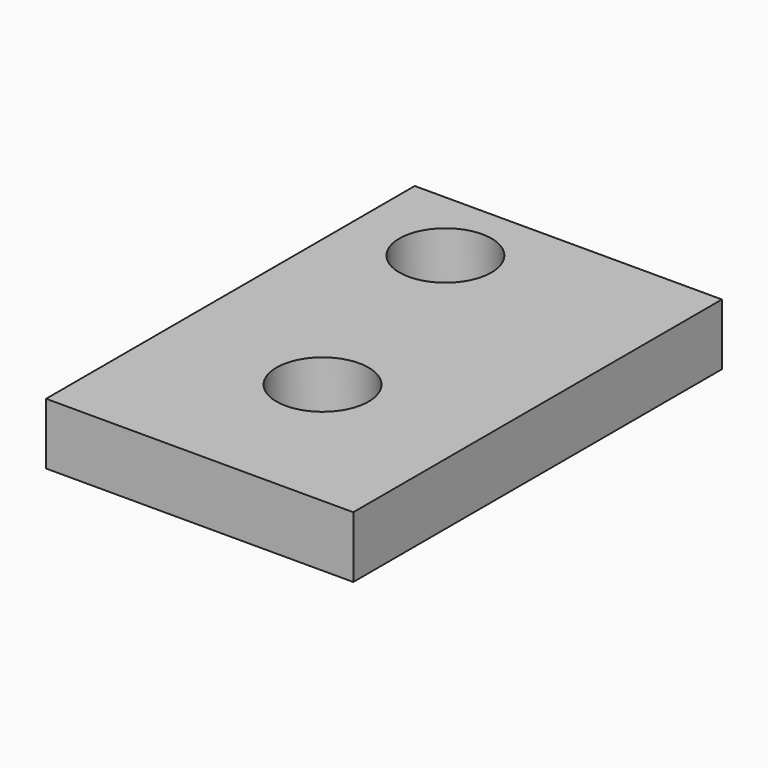
from build123d import *

# Parameters (mm, degrees)
F1_DEPTH = 4
F2_D     = 6
F3_D     = 6


with BuildPart() as f1:
    # F0 (on Top) → F1 (new body)
    with BuildSketch(Plane.XY):
        Polygon((10, 15), (-10, 15), (-10, -15), (0, -15), (10, -15), align=None)
    extrude(amount=F1_DEPTH)

    # F2 (through all)
    with Locations(Plane(origin=(0, 0, 0), x_dir=(1, 0, 0), z_dir=(0, 0, -1))):
        with Locations((-4, -10)):
            Hole(F2_D / 2)

    # F3 (through all)
    with Locations(Plane(origin=(0, 0, 0), x_dir=(1, 0, 0), z_dir=(0, 0, -1))):
        with Locations((0, 5)):
            Hole(F3_D / 2)


solid = f1.part
